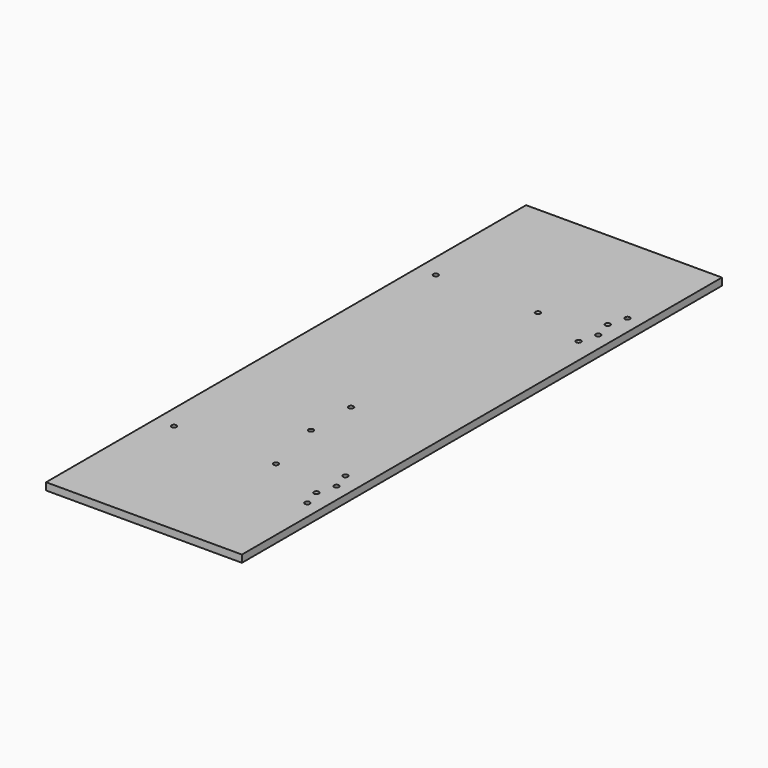
from build123d import *

# Parameters (mm, degrees)
F0_W     = 298.45
F0_H     = 914.4
F1_DEPTH = 11.1125
F3_D     = 7.62
F3_DEPTH = 12.7


with BuildPart() as f1:
    # F0 (on Top) → F1 (new body)
    with BuildSketch(Plane.XY):
        Rectangle(F0_W, F0_H)
    extrude(amount=F1_DEPTH)

    # F3
    with Locations(Plane.XY.offset(11.1125)):
        with Locations((127, -304.6476), (118.7704, -277.2918), (127, -249.2756), (118.7704, -221.9071), (118.7704, 222.3135), (127, 249.6693), (118.7704, 277.6982), (127, 305.054), (34.798, 249.6693), (-120.65, 249.6693), (34.798, -249.2756), (-120.65, -249.2756), (13.335, -155.6766), (13.335, -79.3496)):
            Hole(F3_D / 2, depth=F3_DEPTH)


solid = f1.part
